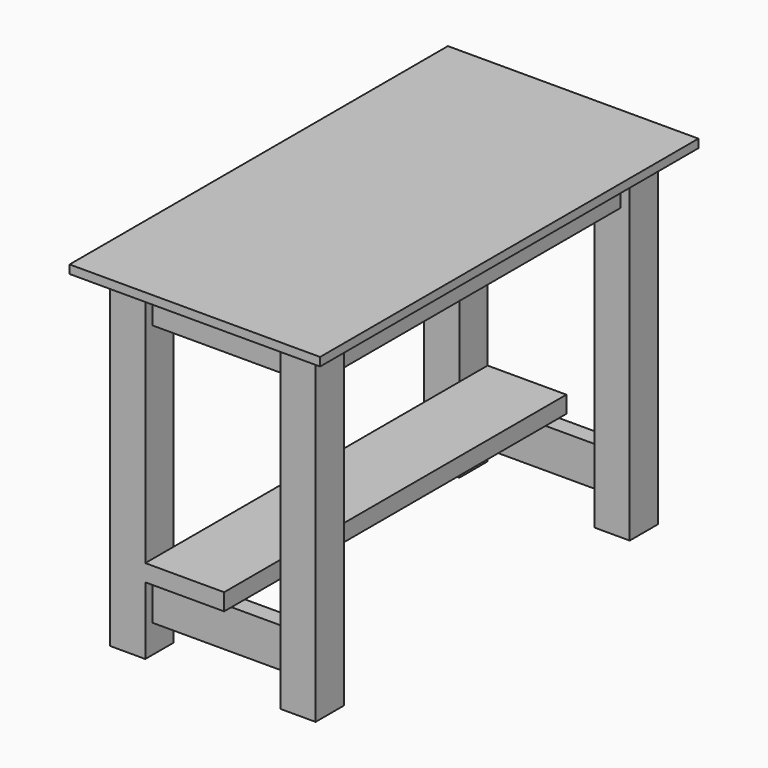
from build123d import *

# Parameters (mm, degrees)
F0_W      = 565.15
F0_H      = 1066.8
F1_DEPTH  = 19.05
F3_DEPTH  = 742.95
F5_W      = 304.8
F5_H      = 38.1
F6_DEPTH  = 88.9
F7_W      = 38.1
F7_H      = 806.45
F8_DEPTH  = 88.9
F9_W      = 346.075
F9_H      = 38.1
F10_DEPTH = 88.9
F12_W     = 304.8
F12_H     = 38.1
F13_DEPTH = 88.9
F14_W     = 177.8
F14_H     = 965.2
F15_DEPTH = 38.1


with BuildPart() as f1:
    # F0 (on Top) → F1 (new body)
    with BuildSketch(Plane.XY):
        with Locations((282.575, 533.4)):
            Rectangle(F0_W, F0_H)
    extrude(amount=F1_DEPTH)

    # F2 (on face) → F3 (join)
    with BuildSketch(Plane(origin=(0, 0, 0), x_dir=(1, 0, 0), z_dir=(0, 0, -1))):
        Polygon((130.175, -1016), (130.175, -976.3125), (130.175, -936.625), (50.8, -936.625), (50.8, -1016), align=None)
        Polygon((514.35, -1016), (514.35, -936.625), (434.975, -936.625), (434.975, -976.3125), (434.975, -1016), align=None)
        Polygon((434.975, -50.8), (434.975, -71.4375), (434.975, -109.5375), (434.975, -130.175), (514.35, -130.175), (514.35, -50.8), align=None)
        Polygon((130.175, -71.4375), (130.175, -50.8), (50.8, -50.8), (50.8, -130.175), (130.175, -130.175), (130.175, -109.5375), align=None)
    extrude(amount=F3_DEPTH)

    # F5 (on face) → F6 (join)
    with BuildSketch(Plane(origin=(0, 0, 0), x_dir=(1, 0, 0), z_dir=(0, 0, -1))):
        with Locations((282.575, -90.4875)):
            Rectangle(F5_W, F5_H)
        with Locations((282.575, -976.3125)):
            Rectangle(F5_W, F5_H)
    extrude(amount=F6_DEPTH)

    # F7 (on face) → F8 (join)
    with BuildSketch(Plane(origin=(0, 0, 0), x_dir=(1, 0, 0), z_dir=(0, 0, -1))):
        with Locations((474.6625, -533.4)):
            Rectangle(F7_W, F7_H)
        with Locations((90.4875, -533.4)):
            Rectangle(F7_W, F7_H)
    extrude(amount=F8_DEPTH)

    # F9 (on face) → F10 (join)
    with BuildSketch(Plane(origin=(0, 0, 0), x_dir=(1, 0, 0), z_dir=(0, 0, -1))):
        with Locations((282.575, -533.4)):
            Rectangle(F9_W, F9_H)
    extrude(amount=F10_DEPTH)

    # F12 (on offset) → F13 (join)
    with BuildSketch(Plane(origin=(0, 0, -590.55), x_dir=(1, 0, 0), z_dir=(0, 0, -1))):
        with Locations((282.575, -90.4875)):
            Rectangle(F12_W, F12_H)
        with Locations((282.575, -976.3125)):
            Rectangle(F12_W, F12_H)
    extrude(amount=F13_DEPTH)

    # F14 (on offset) → F15 (join)
    with BuildSketch(Plane(origin=(0, 0, -590.55), x_dir=(1, 0, 0), z_dir=(0, 0, -1))):
        with Locations((219.075, -533.4)):
            Rectangle(F14_W, F14_H)
    extrude(amount=-F15_DEPTH)


solid = f1.part
